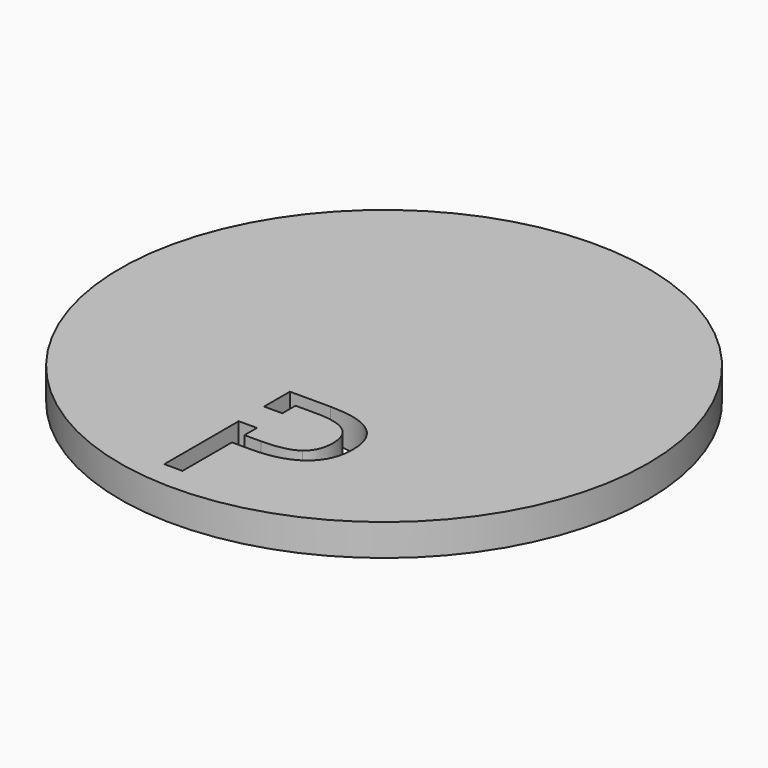
from build123d import *

# Parameters (mm, degrees)
F0_R     = 25
F1_DEPTH = 3
F3_DEPTH = 3


with BuildPart() as f1:
    # F0 (on Top) → F1 (new body)
    with BuildSketch(Plane.XY):
        Circle(F0_R)
        with BuildLine():
            add(Edge.make_bspline(
                [(0.9868079036, -7.5640504993), (6.5597245703, -7.5640504993), (6.5597245703, -11.896732791)],
                knots=[0, 0, 0, 1, 1, 1], degree=2))
            add(Edge.make_bspline(
                [(6.5597245703, -11.896732791), (6.5597245703, -14.1558473743), (5.0183834244, -15.3716676868)],
                knots=[0, 0, 0, 1, 1, 1], degree=2))
            add(Edge.make_bspline(
                [(5.0183834244, -15.3716676868), (3.4770422786, -16.5874879993), (0.6092037369, -16.5874879993)],
                knots=[0, 0, 0, 1, 1, 1], degree=2))
            Line((0.6092037369, -16.5874879993), (-1.1420983464, -16.5874879993))
            Line((-1.1420983464, -16.5874879993), (-1.1420983464, -22.4370973743))
            Line((-1.1420983464, -22.4370973743), (-2.8706139714, -22.4370973743))
            Line((-2.8706139714, -22.4370973743), (-2.8706139714, -7.5640504993))
            Line((-2.8706139714, -7.5640504993), (0.9868079036, -7.5640504993))
        make_face(mode=Mode.SUBTRACT)
    extrude(amount=F1_DEPTH)



with BuildPart() as f1b:
    # F0 (on Top) → F1, piece 2 (new body)
    with BuildSketch(Plane.XY):
        with BuildLine():
            Line((-1.1420983464, -9.0614463327), (-1.1420983464, -15.1031129993))
            Line((-1.1420983464, -15.1031129993), (0.4171464453, -15.1031129993))
            add(Edge.make_bspline(
                [(0.4171464453, -15.1031129993), (2.7153235286, -15.1031129993), (3.7423417578, -14.3609254993)],
                knots=[0, 0, 0, 1, 1, 1], degree=2))
            add(Edge.make_bspline(
                [(3.7423417578, -14.3609254993), (4.7693599869, -13.6187379993), (4.7693599869, -11.9781129993)],
                knots=[0, 0, 0, 1, 1, 1], degree=2))
            add(Edge.make_bspline(
                [(4.7693599869, -11.9781129993), (4.7693599869, -10.5035036243), (3.8025631119, -9.7824749785)],
                knots=[0, 0, 0, 1, 1, 1], degree=2))
            add(Edge.make_bspline(
                [(3.8025631119, -9.7824749785), (2.8357662369, -9.0614463327), (0.7914954036, -9.0614463327)],
                knots=[0, 0, 0, 1, 1, 1], degree=2))
            Line((0.7914954036, -9.0614463327), (-1.1420983464, -9.0614463327))
        make_face()
    extrude(amount=F1_DEPTH)


with BuildPart() as f1_1:
    add(f1.part)

    add(f1b.part)  # F3 merges F1b
    # F2 (on Top) → F3 (join)
    with BuildSketch(Plane.XY):
        Polygon((0, -10.621725142), (-9.7534448872, -10.621725142), (-9.6736760242, -13.621725142), (0, -13.621725142), align=None)
    extrude(amount=F3_DEPTH)


solid = f1_1.part
